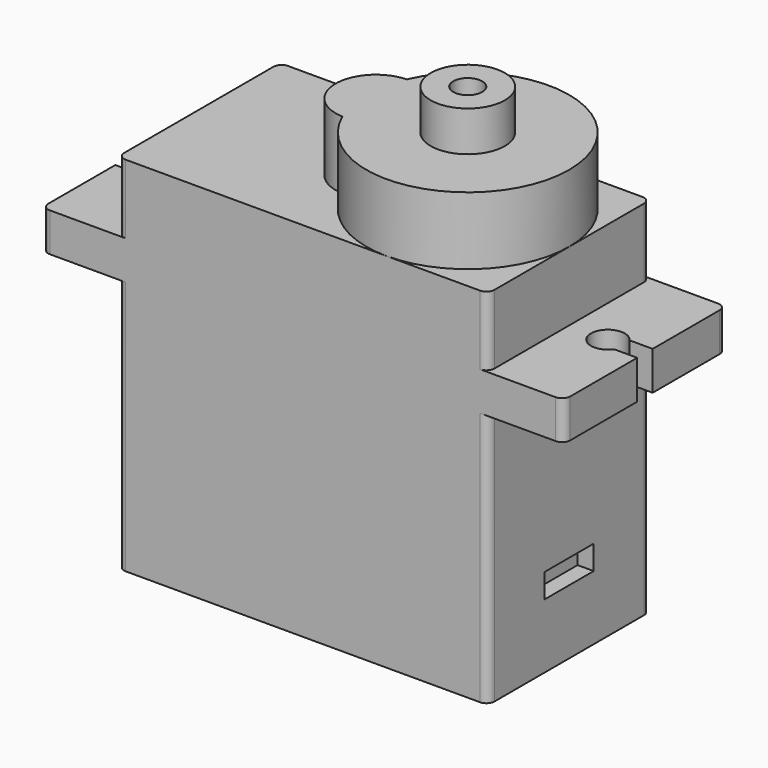
from build123d import *

# Parameters (mm, degrees)
F0_W      = 4.7
F0_H      = 2.4
F1_DEPTH  = 12.6
F3_DEPTH  = 4.2
F4_R      = 2.3
F4_R_2    = 0.9
F5_DEPTH  = 2.5
F7_DEPTH  = 25
F8_R      = 0.5
F9_W      = 3.8
F9_H      = 1.5
F10_DEPTH = 1


with BuildPart() as f1:
    # F0 (on Front) → F1 (new body)
    with BuildSketch(Plane.XZ):
        Polygon((0, 15.8), (0, 0), (23, 0), (23, 15.8), (23, 18.2), (23, 22.5), (0, 22.5), (0, 18.2), align=None)
        with Locations((-2.35, 17)):
            Rectangle(F0_W, F0_H)
        with Locations((25.35, 17)):
            Rectangle(F0_W, F0_H)
    extrude(amount=F1_DEPTH)

    # F2 (on face) → F3 (join)
    with BuildSketch(Plane.XY.offset(22.5)):
        with BuildLine():
            ThreePointArc((10.916667, -3.801389), (8.5, -6.3), (10.916667, -8.798611))
            ThreePointArc((10.916667, -8.798611), (23, -6.3), (10.916667, -3.801389))
        make_face()
    extrude(amount=F3_DEPTH)

    # F4 (on face) → F5 (join)
    with BuildSketch(Plane.XY.offset(26.7)):
        with Locations((16.7, -6.3)):
            Circle(F4_R)
        with Locations((16.7, -6.3)):
            Circle(F4_R_2, mode=Mode.SUBTRACT)
    extrude(amount=F5_DEPTH)

    # F6 (on face) → F7 (cut)
    with BuildSketch(Plane.XY.offset(18.2)):
        with BuildLine():
            Line((-5.387607, -6.9), (-3.261684, -6.9))
            ThreePointArc((-3.261684, -6.9), (-1.35, -6.3), (-3.261684, -5.7))
            Line((-3.261684, -5.7), (-5.387607, -5.7))
            Line((-5.387607, -5.7), (-5.387607, -6.9))
        make_face()
        with BuildLine():
            ThreePointArc((26.261684, -5.7), (24.35, -6.3), (26.261684, -6.9))
            Line((26.261684, -6.9), (28.387607, -6.9))
            Line((28.387607, -6.9), (28.387607, -5.7))
            Line((28.387607, -5.7), (26.261684, -5.7))
        make_face()
    extrude(amount=-F7_DEPTH, mode=Mode.SUBTRACT)

    # F8
    f8_edges = [f1.edges().sort_by_distance(p)[0] for p in [
        (0, -12.6, 20.35),
        (0, -12.6, 7.9),
        (0, 0, 20.35),
        (0, 0, 7.9),
        (-4.7, -12.6, 17),
        (-4.7, 0, 17),
        (27.7, -12.6, 17),
        (23, -12.6, 20.35),
        (23, -12.6, 7.9),
        (27.7, 0, 17),
        (23, 0, 20.35),
        (23, 0, 7.9),
    ]]
    fillet(f8_edges, radius=F8_R)

    # F9 (on face) → F10 (cut)
    with BuildSketch(Plane.YZ.offset(23)):
        with Locations((-6.3, 4.75)):
            Rectangle(F9_W, F9_H)
    extrude(amount=-F10_DEPTH, mode=Mode.SUBTRACT)


with BuildPart() as f11_1:
    # F11: copy of F1
    add(f1.part)


solid = Compound([f1.part, f11_1.part])
